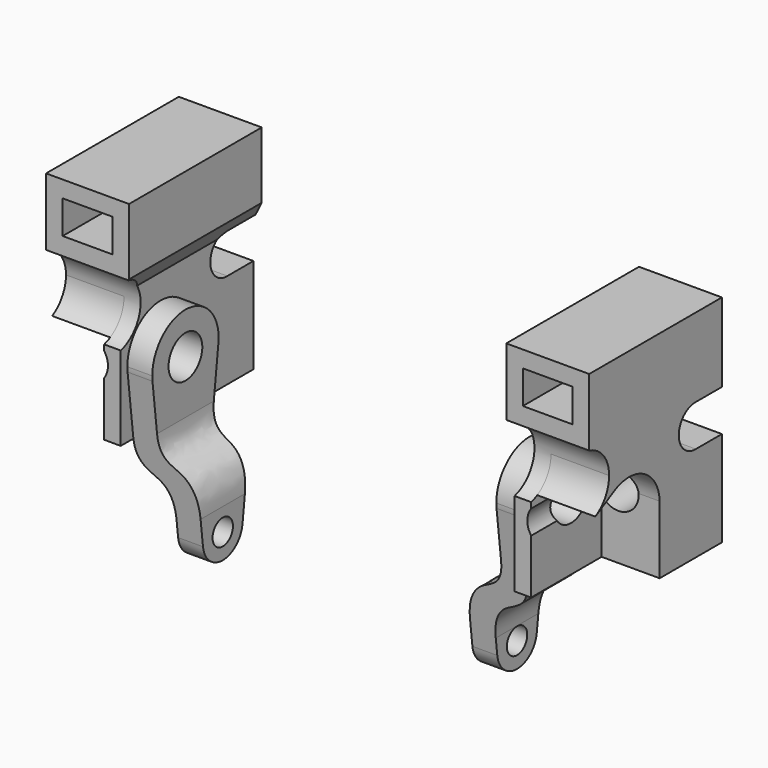
from build123d import *

# Parameters (mm, degrees)
F0_W      = 4.7625
F0_H      = 3.175
F1_DEPTH  = 15.875
F3_DEPTH  = 6.35
F4_R      = 2.0193
F5_DEPTH  = 6.35
F6_R      = 1.2192
F7_DEPTH  = 3.175
F8_W      = 11.9834491052
F8_H      = 22.2694753902
F9_DEPTH  = 5.953125
F11_DEPTH = 12.7
F12_R     = 3.175
F13_DEPTH = 25.4
F16_DEPTH = 5.55625
F17_R     = 1.9558
F18_DEPTH = 25.4


with BuildPart() as f1:
    # F0 (on Front) → F1 (new body)
    with BuildSketch(Plane.XZ):
        Polygon((25.9880623326, 32.8060412616), (18.0505623326, 32.8060412616), (18.0505623326, 26.4560412616), (18.8443123326, 24.8685412616), (18.8443123326, 23.2810412616), (18.8443123326, 12.316486495), (18.8443123326, 12.1685412616), (20.4318123326, 12.1685412616), (20.4318123326, 23.2810412616), (25.9880623326, 23.2810412616), align=None)
        with Locations((22.0193123326, 29.6310412616)):
            Rectangle(F0_W, F0_H, mode=Mode.SUBTRACT)
        with BuildLine():
            Line((18.8443123326, 12.316486495), (18.8443123326, 23.2810412616))
            Line((18.8443123326, 23.2810412616), (16.4630623326, 23.2810412616))
            Line((16.4630623326, 23.2810412616), (16.4630623326, 13.4046304964))
            Line((16.4630623326, 13.4046304964), (16.4630623326, 9.1819290237))
            add(Edge.make_bspline(
                [(16.4630623326, 9.1819290237), (17.3737947307, 9.8227172485), (18.8443123326, 9.9338799728), (18.8443123326, 12.316486495)],
                knots=[0.4757388296, 0.4757388296, 0.4757388296, 0.4757388296, 1, 1, 1, 1], degree=3))
        make_face()
        with BuildLine():
            add(Edge.make_bspline(
                [(15.2724373326, 6.1734203162), (15.2724373326, 7.5799912417), (15.6363278244, 8.5996300901), (16.4623979463, 9.1814615638), (16.4630623326, 9.1819290237)],
                knots=[0, 0, 0, 0, 0.4753563771, 0.4757388296, 0.4757388296, 0.4757388296, 0.4757388296], degree=3))
            Line((16.4630623326, 9.1819290237), (16.4630623326, 13.4046304964))
            add(Edge.make_bspline(
                [(12.8911873326, 7.0617661687), (12.8911873326, 8.8129341602), (14.0361009196, 10.9763167118), (16.4630623326, 11.1446240917), (16.4630623326, 13.4046304964)],
                knots=[0, 0, 0, 0, 0.5050837928, 1, 1, 1, 1], degree=3))
            Line((12.8911873326, 7.0617661687), (12.8911873326, 2.5328625925))
            Line((12.8911873326, 2.5328625925), (15.2724373326, 2.5328625925))
            Line((15.2724373326, 2.5328625925), (15.2724373326, 6.1734203162))
        make_face()
    extrude(amount=F1_DEPTH)

    # F2 (on face) → F3 (cut)
    with BuildSketch(Plane(origin=(0, 0, 0), x_dir=(-1, 0, 0), z_dir=(0, 1, 0))):
        with BuildLine():
            Line((-16.4630623326, 23.2810412616), (-18.8443123326, 23.2810412616))
            Line((-18.8443123326, 23.2810412616), (-18.8443123326, 12.316486495))
            add(Edge.make_bspline(
                [(-15.2724373326, 6.1734203162), (-15.2724373326, 7.5799912417), (-16.0373328365, 9.7232656286), (-18.8443123326, 9.932141843), (-18.8443123326, 12.316486495)],
                knots=[0, 0, 0, 0, 0.4753563771, 1, 1, 1, 1], degree=3))
            Line((-15.2724373326, 6.1734203162), (-15.2724373326, 2.5328625925))
            Line((-15.2724373326, 2.5328625925), (-12.8911873326, 2.5328625925))
            Line((-12.8911873326, 2.5328625925), (-12.8911873326, 7.0617661687))
            add(Edge.make_bspline(
                [(-12.8911873326, 7.0617661687), (-12.8911873326, 8.8129341602), (-14.0361009196, 10.9763167118), (-16.4630623326, 11.1446240917), (-16.4630623326, 13.4046304964)],
                knots=[0, 0, 0, 0, 0.5050837928, 1, 1, 1, 1], degree=3))
            Line((-16.4630623326, 13.4046304964), (-16.4630623326, 23.2810412616))
        make_face()
    extrude(amount=-F3_DEPTH, mode=Mode.SUBTRACT)

    # F4 (on face) → F5 (cut)
    with BuildSketch(Plane(origin=(16.4630623326, 0, 0), x_dir=(0, -1, 0), z_dir=(-1, 0, 0))):
        with Locations((11.1125, 18.5185412616)):
            Circle(F4_R)
    extrude(amount=-F5_DEPTH, mode=Mode.SUBTRACT)

    # F6 (on face) → F7 (cut)
    with BuildSketch(Plane(origin=(12.8911873326, 0, 0), x_dir=(0, -1, 0), z_dir=(-1, 0, 0))):
        with Locations((11.1125, 4.9141125925)):
            Circle(F6_R)
    extrude(amount=-F7_DEPTH, mode=Mode.SUBTRACT)

    # F8 (on face) → F9 (cut)
    with BuildSketch(Plane(origin=(12.8911873326, 0, 0), x_dir=(0, -1, 0), z_dir=(-1, 0, 0))):
        with Locations((11.2647737842, 12.930464407)):
            Rectangle(F8_W, F8_H)
        with BuildLine():
            ThreePointArc((13.4774822364, 4.6362446668), (11.1125, 2.5328625925), (8.7475177636, 4.6362446668))
            Line((8.7475177636, 4.6362446668), (7.1708629394, 18.055428052))
            ThreePointArc((7.1708629394, 18.055428052), (10.8805469033, 22.4805072285), (15.08125, 18.5185412616))
            ThreePointArc((15.08125, 18.5185412616), (15.074465967, 18.2865881648), (15.0541370606, 18.055428052))
            Line((15.0541370606, 18.055428052), (13.4774822364, 4.6362446668))
        make_face(mode=Mode.SUBTRACT)
    extrude(amount=-F9_DEPTH, mode=Mode.SUBTRACT)

    # F10 (on face) → F11 (cut, symmetric)
    with BuildSketch(Plane(origin=(18.8443123326, 0, 0), x_dir=(0, -1, 0), z_dir=(-1, 0, 0))):
        with BuildLine():
            ThreePointArc((3.1226751391, 21.2973562438), (4.5595418005, 21.8594969804), (5.159375, 23.2810412616))
            ThreePointArc((5.159375, 23.2810412616), (4.545014562, 24.7165914141), (3.0823439545, 25.2632518956))
            ThreePointArc((3.0823439545, 25.2632518956), (1.1907276029, 23.260862199), (3.1226751391, 21.2973562438))
        make_face()
        with BuildLine():
            ThreePointArc((3.1226751391, 21.2973562438), (1.1907276029, 23.260862199), (3.0823439545, 25.2632518956))
            Line((3.0823439545, 25.2632518956), (0, 25.2632518956))
            Line((0, 25.2632518956), (0, 21.2973562438))
            Line((0, 21.2973562438), (3.1226751391, 21.2973562438))
        make_face()
    extrude(amount=F11_DEPTH, both=True, mode=Mode.SUBTRACT)

    # F12 (on face) → F13 (cut)
    with BuildSketch(Plane(origin=(18.0505623326, 0, 0), x_dir=(0, -1, 0), z_dir=(-1, 0, 0))):
        with Locations((16.66875, 23.2810412616)):
            Circle(F12_R)
    extrude(amount=-F13_DEPTH, mode=Mode.SUBTRACT)

    # F15 (on face) → F16 (join)
    with BuildSketch(Plane.YZ.offset(20.4318123326)):
        with BuildLine():
            ThreePointArc((-7.4460533302, 18.3771287577), (-7.4440088324, 18.4478218728), (-7.4433272487, 18.5185412616))
            ThreePointArc((-7.4433272487, 18.5185412616), (-7.4440088324, 18.5892606503), (-7.4460533302, 18.6599537654))
            Line((-7.4460533302, 18.6599537654), (-7.4460533302, 18.3771287577))
        make_face()
        with BuildLine():
            ThreePointArc((-7.4460533302, 18.6599537654), (-7.4440088324, 18.5892606503), (-7.4433272487, 18.5185412616))
            ThreePointArc((-7.4433272487, 18.5185412616), (-7.4440088324, 18.4478218728), (-7.4460533302, 18.3771287577))
            Line((-7.4460533302, 18.3771287577), (-7.4460533302, 12.1685412616))
            Line((-7.4460533302, 12.1685412616), (0, 12.1685412616))
            Line((0, 12.1685412616), (0, 21.2973562438))
            Line((0, 21.2973562438), (-3.1226751391, 21.2973562438))
            ThreePointArc((-3.1226751391, 21.2973562438), (-4.5595418005, 21.8594969804), (-5.159375, 23.2810412616))
            Line((-5.159375, 23.2810412616), (-13.49375, 23.2810412616))
            ThreePointArc((-13.49375, 23.2810412616), (-13.9377676075, 21.6616709605), (-15.1456304233, 20.4952322668))
            Line((-15.1456304233, 20.4952322668), (-12.8726854639, 21.7379473887))
            ThreePointArc((-12.8726854639, 21.7379473887), (-9.302259924, 21.7100706044), (-7.4460533302, 18.6599537654))
        make_face()
    extrude(amount=F16_DEPTH)

    # F17 (on face) → F18 (cut)
    with BuildSketch(Plane(origin=(0, 0, 0), x_dir=(-1, 0, 0), z_dir=(0, 1, 0))):
        with Locations((-22.0193123326, 18.5185412616)):
            Circle(F17_R)
    extrude(amount=-F18_DEPTH, mode=Mode.SUBTRACT)


with BuildPart() as f19_1:
    # F19: instance of F1
    add(f1.part.mirror(Plane.YZ))


solid = Compound([f1.part, f19_1.part])
